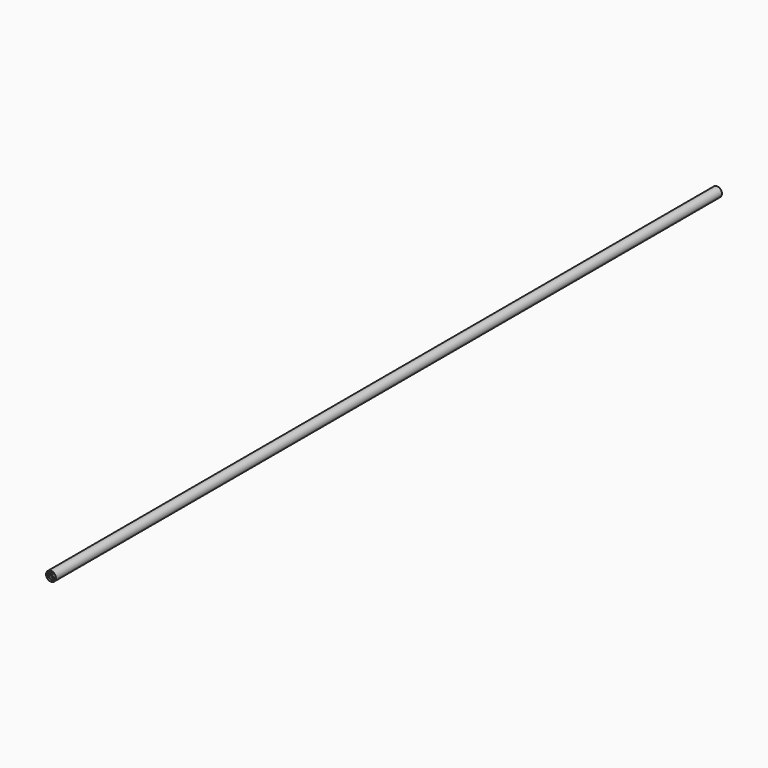
from build123d import *

# Parameters (mm, degrees)
F0_R     = 1.2075
F0_R_2   = 1.2
F0_R_3   = 1.05
F0_R_4   = 0.4064
F0_R_5   = 0.2205357301
F0_R_6   = 0.08001
F1_DEPTH = 205
F2_R     = 1.05
F2_R_2   = 0.08001
F2_R_3   = 0.4064
F3_DEPTH = 1
F4_R     = 0.220535
F4_R_2   = 0.08001
F5_DEPTH = 1
F6_R     = 1.175
F6_R_2   = 1.05
F7_DEPTH = 0.5


with BuildPart() as f1:
    # F0 (on Front) → F1 (new body)
    with BuildSketch(Plane.XZ):
        with Locations((0, 0.2878)):
            Circle(F0_R)
        with Locations((0, 0.2878)):
            Circle(F0_R_2, mode=Mode.SUBTRACT)
        with Locations((0, 0.2878)):
            Circle(F0_R_2)
        with Locations((0, 0.2878)):
            Circle(F0_R_3, mode=Mode.SUBTRACT)
        with Locations((0, 0.2878)):
            Circle(F0_R_3)
        with BuildLine():
            add(Edge.make_bspline(
                [(0.2313024888, -0.5588), (0.2313024888, -0.3679270245), (-0.1156512444, -0.4633635122), (-0.4626049777, -0.5588), (-0.1156512444, -0.6542364878), (0.2313024888, -0.7496729755), (0.2313024888, -0.5588)],
                knots=[0, 0, 0, 2.0943951024, 2.0943951024, 4.1887902048, 4.1887902048, 6.2831853072, 6.2831853072, 6.2831853072], degree=2, weights=[1, 0.5, 1, 0.5, 1, 0.5, 1]))
        make_face(mode=Mode.SUBTRACT)
        Circle(F0_R_4, mode=Mode.SUBTRACT)
        with Locations((-0.5588, 0.4191)):
            Circle(F0_R_5, mode=Mode.SUBTRACT)
        with Locations((0, 0.8382)):
            Circle(F0_R_4, mode=Mode.SUBTRACT)
        with Locations((0.5588, 0.4191)):
            Circle(F0_R_5, mode=Mode.SUBTRACT)
        with Locations((-0.5588, 0.4191)):
            Circle(F0_R_5)
        with Locations((-0.65151, 0.318008)):
            Circle(F0_R_6, mode=Mode.SUBTRACT)
        with Locations((-0.65151, 0.51181)):
            Circle(F0_R_6, mode=Mode.SUBTRACT)
        with Locations((-0.46609, 0.4191)):
            Circle(F0_R_6, mode=Mode.SUBTRACT)
        with Locations((0.5588, 0.4191)):
            Circle(F0_R_5)
        with Locations((0.46609, 0.4191)):
            Circle(F0_R_6, mode=Mode.SUBTRACT)
        with Locations((0.65151, 0.318008)):
            Circle(F0_R_6, mode=Mode.SUBTRACT)
        with Locations((0.65151, 0.51181)):
            Circle(F0_R_6, mode=Mode.SUBTRACT)
        with BuildLine():
            add(Edge.make_bspline(
                [(0.2313024888, -0.5588), (0.2313024888, -0.3679270245), (-0.1156512444, -0.4633635122), (-0.4626049777, -0.5588), (-0.1156512444, -0.6542364878), (0.2313024888, -0.7496729755), (0.2313024888, -0.5588)],
                knots=[0, 0, 0, 2.0943951024, 2.0943951024, 4.1887902048, 4.1887902048, 6.2831853072, 6.2831853072, 6.2831853072], degree=2, weights=[1, 0.5, 1, 0.5, 1, 0.5, 1]))
        make_face()
        with Locations((-0.09271, -0.5588)):
            Circle(F0_R_6, mode=Mode.SUBTRACT)
        with Locations((0.09271, -0.5588)):
            Circle(F0_R_6, mode=Mode.SUBTRACT)
    extrude(amount=F1_DEPTH)

    # F2 (on face) → F3 (cut)
    with BuildSketch(Plane.XZ.offset(205)):
        with Locations((0, 0.2878)):
            Circle(F2_R)
        with Locations((-0.09271, -0.5588)):
            Circle(F2_R_2, mode=Mode.SUBTRACT)
        Circle(F2_R_3, mode=Mode.SUBTRACT)
        with Locations((0.09271, -0.5588)):
            Circle(F2_R_2, mode=Mode.SUBTRACT)
        with Locations((-0.65151, 0.318008)):
            Circle(F2_R_2, mode=Mode.SUBTRACT)
        with Locations((-0.65151, 0.51181)):
            Circle(F2_R_2, mode=Mode.SUBTRACT)
        with Locations((-0.46609, 0.4191)):
            Circle(F2_R_2, mode=Mode.SUBTRACT)
        with Locations((0, 0.8382)):
            Circle(F2_R_3, mode=Mode.SUBTRACT)
        with Locations((0.46609, 0.4191)):
            Circle(F2_R_2, mode=Mode.SUBTRACT)
        with Locations((0.65151, 0.318008)):
            Circle(F2_R_2, mode=Mode.SUBTRACT)
        with Locations((0.65151, 0.51181)):
            Circle(F2_R_2, mode=Mode.SUBTRACT)
    extrude(amount=-F3_DEPTH, mode=Mode.SUBTRACT)

    # F4 (on face) → F5 (cut)
    with BuildSketch(Plane.XZ.offset(204)):
        with Locations((-0.5588, 0.4191)):
            Circle(F4_R)
        with Locations((-0.65151, 0.318008)):
            Circle(F4_R_2, mode=Mode.SUBTRACT)
        with Locations((-0.65151, 0.51181)):
            Circle(F4_R_2, mode=Mode.SUBTRACT)
        with Locations((-0.46609, 0.4191)):
            Circle(F4_R_2, mode=Mode.SUBTRACT)
        with Locations((0.5588, 0.4191)):
            Circle(F4_R)
        with Locations((0.46609, 0.4191)):
            Circle(F4_R_2, mode=Mode.SUBTRACT)
        with Locations((0.65151, 0.318008)):
            Circle(F4_R_2, mode=Mode.SUBTRACT)
        with Locations((0.65151, 0.51181)):
            Circle(F4_R_2, mode=Mode.SUBTRACT)
        with BuildLine():
            add(Edge.make_bspline(
                [(0.2313, -0.5588), (0.2313, -0.3682744112), (-0.11565, -0.4635372056), (-0.4626, -0.5588), (-0.11565, -0.6540627944), (0.2313, -0.7493255888), (0.2313, -0.5588)],
                knots=[0, 0, 0, 2.0943951024, 2.0943951024, 4.1887902048, 4.1887902048, 6.2831853072, 6.2831853072, 6.2831853072], degree=2, weights=[1, 0.5, 1, 0.5, 1, 0.5, 1]))
        make_face()
        with Locations((-0.09271, -0.5588)):
            Circle(F4_R_2, mode=Mode.SUBTRACT)
        with BuildLine():
            ThreePointArc((0.0127, -0.5588), (0.09271, -0.47879), (0.17272, -0.5588))
            ThreePointArc((0.17272, -0.5588), (0.09271, -0.63881), (0.0127, -0.5588))
        make_face(mode=Mode.SUBTRACT)
    extrude(amount=-F5_DEPTH, mode=Mode.SUBTRACT)

    # F6 (on face) → F7 (cut)
    with BuildSketch(Plane.XZ.offset(205)):
        with Locations((0, 0.2878)):
            Circle(F6_R)
        with Locations((0, 0.2878)):
            Circle(F6_R_2, mode=Mode.SUBTRACT)
    extrude(amount=-F7_DEPTH, mode=Mode.SUBTRACT)


solid = f1.part
